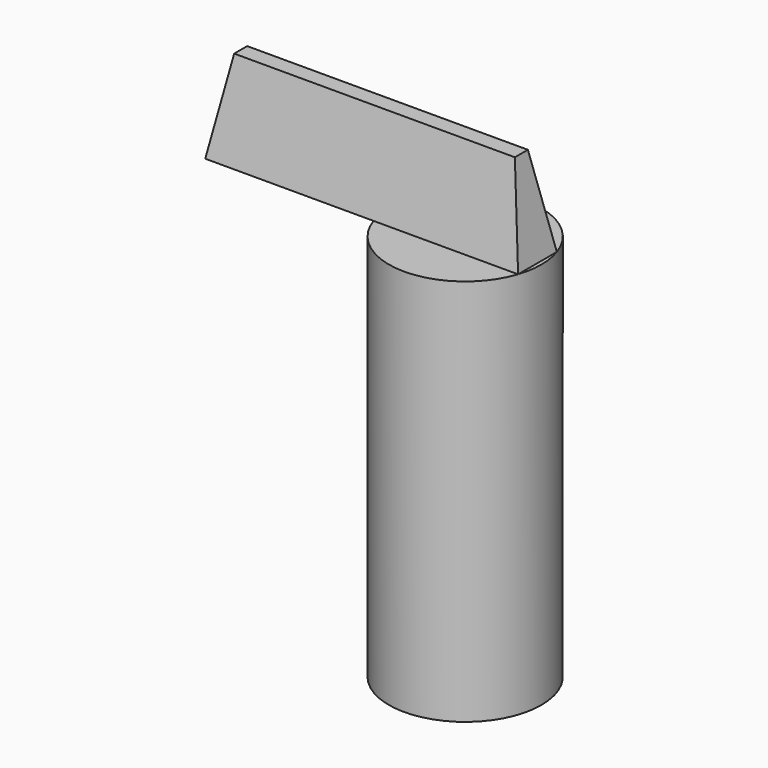
from build123d import *

# Parameters (mm, degrees)
F0_R     = 7.493
F1_DEPTH = 38.1
F3_DEPTH = 8.9662
F3_TAPER = 10


with BuildPart() as f1:
    # F0 (on Top) → F1 (new body)
    with BuildSketch(Plane.XY):
        with Locations((23.6377082765, 23.2566650957)):
            Circle(F0_R)
    extrude(amount=F1_DEPTH)

    # F2 (on face) → F3 (join)
    with BuildSketch(Plane.XY.offset(38.1)):
        with BuildLine():
            ThreePointArc((16.5324694557, 25.6358730098), (16.1447082765, 23.2566650957), (16.5324694557, 20.8774571815))
            Line((16.5324694557, 20.8774571815), (30.7429470974, 20.8774571815))
            Line((30.7429470974, 20.8774571815), (30.7429470974, 25.6358730098))
            Line((30.7429470974, 25.6358730098), (16.5324694557, 25.6358730098))
        make_face()
        with BuildLine():
            Line((0, 25.6358730098), (0, 20.8774571815))
            Line((0, 20.8774571815), (16.5324694557, 20.8774571815))
            ThreePointArc((16.5324694557, 20.8774571815), (16.1447082765, 23.2566650957), (16.5324694557, 25.6358730098))
            Line((16.5324694557, 25.6358730098), (0, 25.6358730098))
        make_face()
    extrude(amount=F3_DEPTH, taper=F3_TAPER)


solid = f1.part
